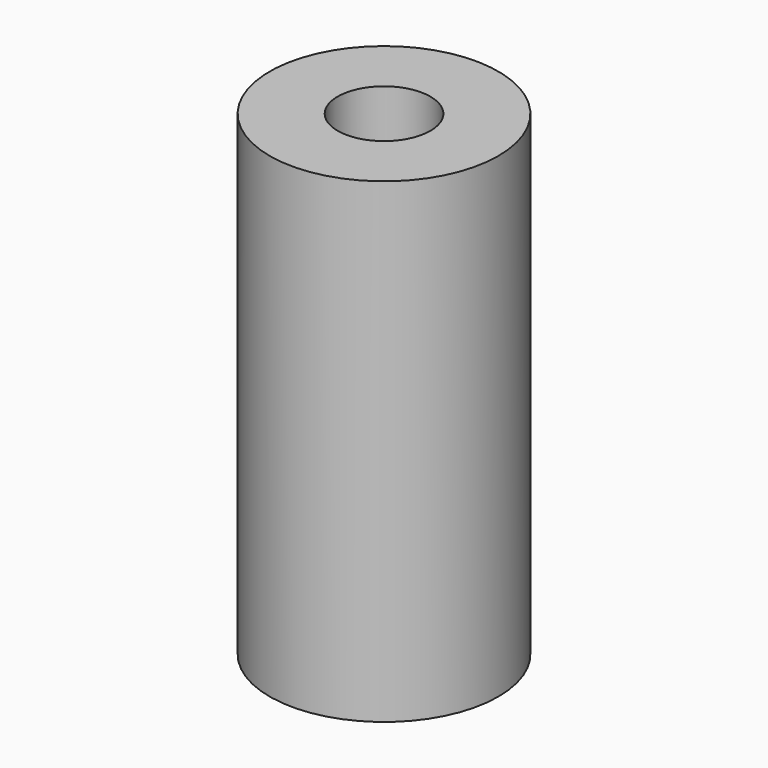
from build123d import *

# Parameters (mm, degrees)
F0_W     = 90
F0_H     = 374.65
F2_R     = 30
F3_DEPTH = 374.651
F4_R     = 36.5
F4_R_2   = 30
F5_DEPTH = 346


with BuildPart() as f1:
    # F0 (on Front) → F1 (revolve)
    with BuildSketch(Plane.XZ):
        with Locations((45, -187.325)):
            Rectangle(F0_W, F0_H)
    revolve(axis=Axis((0, 0, -187.325), (0, 0, -1)))

    # F2 (on face) → F3 (cut, through all)
    with BuildSketch(Plane.XY):
        with Locations((0, 2.491364)):
            Circle(F2_R)
    extrude(amount=-F3_DEPTH, mode=Mode.SUBTRACT)

    # F4 (on face) → F5 (cut)
    with BuildSketch(Plane.XY):
        Circle(F4_R)
        with Locations((0, 2.491364)):
            Circle(F4_R_2, mode=Mode.SUBTRACT)
    extrude(amount=-F5_DEPTH, mode=Mode.SUBTRACT)


solid = f1.part
